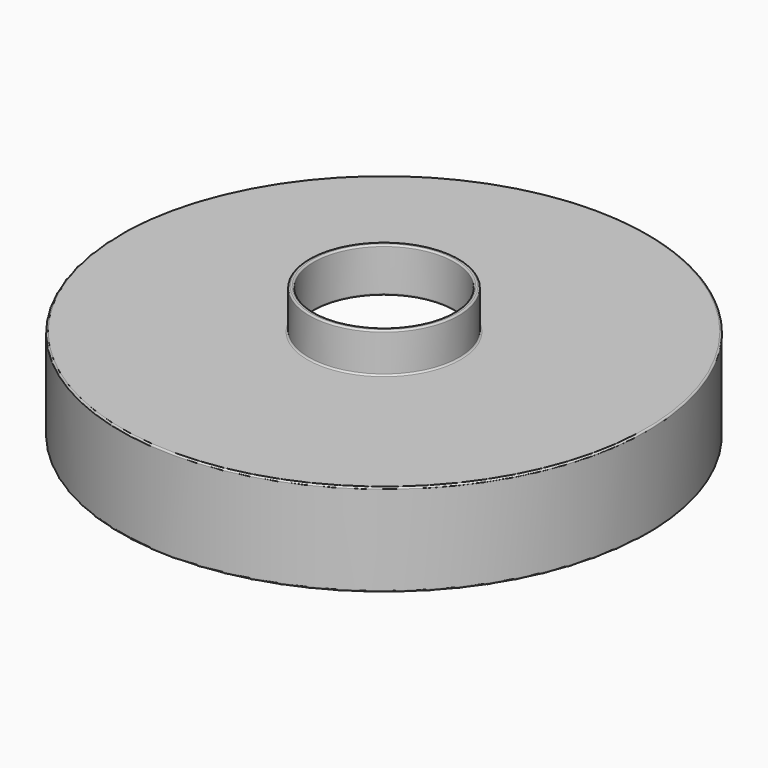
from build123d import *


with BuildPart() as f1:
    # F0 (on Right) → F1 (revolve)
    with BuildSketch(Plane.YZ):
        with BuildLine():
            ThreePointArc((-162.5, -1), (-162.207107, -0.292893), (-161.5, 0))
            Line((-161.5, 0), (-47, 0))
            Line((-47, 0), (-45, 0))
            ThreePointArc((-45, 0), (-44.292893, 0.292893), (-44, 1))
            Line((-44, 1), (-44, 3))
            Line((-44, 3), (-44, 27))
            ThreePointArc((-44, 27), (-44.292893, 27.707107), (-45, 28))
            Line((-45, 28), (-46, 28))
            ThreePointArc((-46, 28), (-46.707107, 27.707107), (-47, 27))
            Line((-47, 27), (-47, 4))
            ThreePointArc((-47, 4), (-47.292893, 3.292893), (-48, 3))
            Line((-48, 3), (-164.5, 3))
            ThreePointArc((-164.5, 3), (-165.207107, 2.707107), (-165.5, 2))
            Line((-165.5, 2), (-165.5, -54))
            ThreePointArc((-165.5, -54), (-165.207107, -54.707107), (-164.5, -55))
            Line((-164.5, -55), (-163.5, -55))
            ThreePointArc((-163.5, -55), (-162.792893, -54.707107), (-162.5, -54))
            Line((-162.5, -54), (-162.5, -1))
        make_face()
    revolve(axis=Axis((0, 0, -20.725805), (0, 0, -1)))


solid = f1.part
